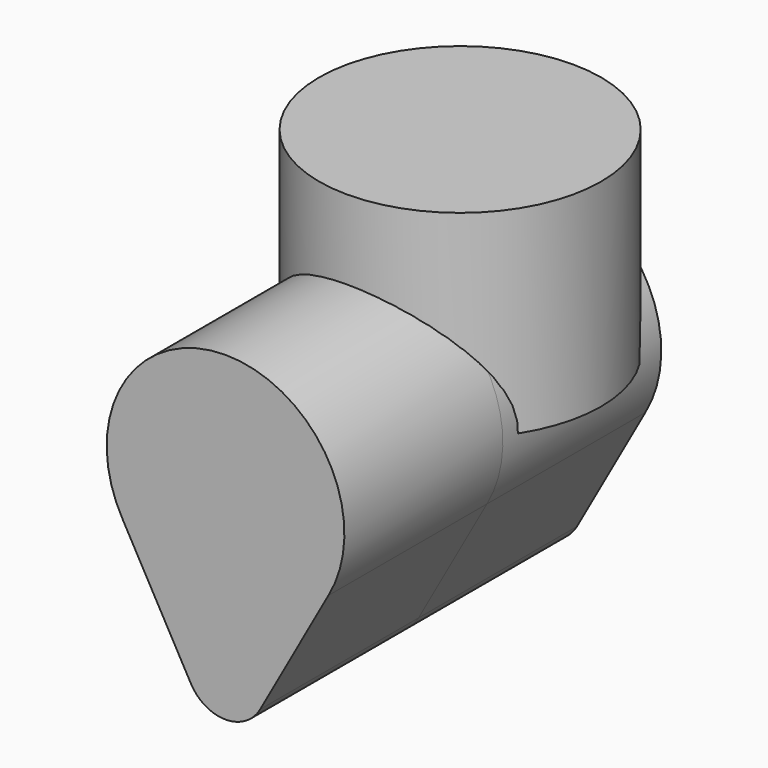
from build123d import *

# Parameters (mm, degrees)
F1_DEPTH = 25
F2_R     = 17.802767
F3_DEPTH = 25
F5_DEPTH = 25


with BuildPart() as f1:
    # F0 (on Front) → F1 (new body)
    with BuildSketch(Plane.XZ):
        with BuildLine():
            Line((4.367155, -22.967014), (12.98513, -7.509087))
            ThreePointArc((12.98513, -7.509087), (0, 15), (-12.98513, -7.509087))
            Line((-12.98513, -7.509087), (-4.367155, -22.967014))
            ThreePointArc((-4.367155, -22.967014), (0, -25.532274), (4.367155, -22.967014))
        make_face()
        with BuildLine():
            Line((4.367155, -22.967014), (12.98513, -7.509087))
            ThreePointArc((12.98513, -7.509087), (0, 15), (-12.98513, -7.509087))
            Line((-12.98513, -7.509087), (-4.367155, -22.967014))
            ThreePointArc((-4.367155, -22.967014), (0, -25.532274), (4.367155, -22.967014))
        make_face()
        with BuildLine():
            Line((4.367155, -22.967014), (12.98513, -7.509087))
            ThreePointArc((12.98513, -7.509087), (0, 15), (-12.98513, -7.509087))
            Line((-12.98513, -7.509087), (-4.367155, -22.967014))
            ThreePointArc((-4.367155, -22.967014), (0, -25.532274), (4.367155, -22.967014))
        make_face()
    extrude(amount=F1_DEPTH)


with BuildPart() as f3:
    # F2 (on Top) → F3 (new body)
    with BuildSketch(Plane.XY):
        with Locations((0, -12.988755)):
            Circle(F2_R)
    extrude(amount=F3_DEPTH)


with BuildPart() as f5:
    # F4 (on face) → F5 (new body)
    with BuildSketch(Plane.XZ.offset(25)):
        with BuildLine():
            Line((4.367155, -22.967014), (12.98513, -7.509087))
            ThreePointArc((12.98513, -7.509087), (0, 15), (-12.98513, -7.509087))
            Line((-12.98513, -7.509087), (-4.367155, -22.967014))
            ThreePointArc((-4.367155, -22.967014), (0, -25.532274), (4.367155, -22.967014))
        make_face()
    extrude(amount=F5_DEPTH)


solid = Compound([f1.part, f3.part, f5.part])
